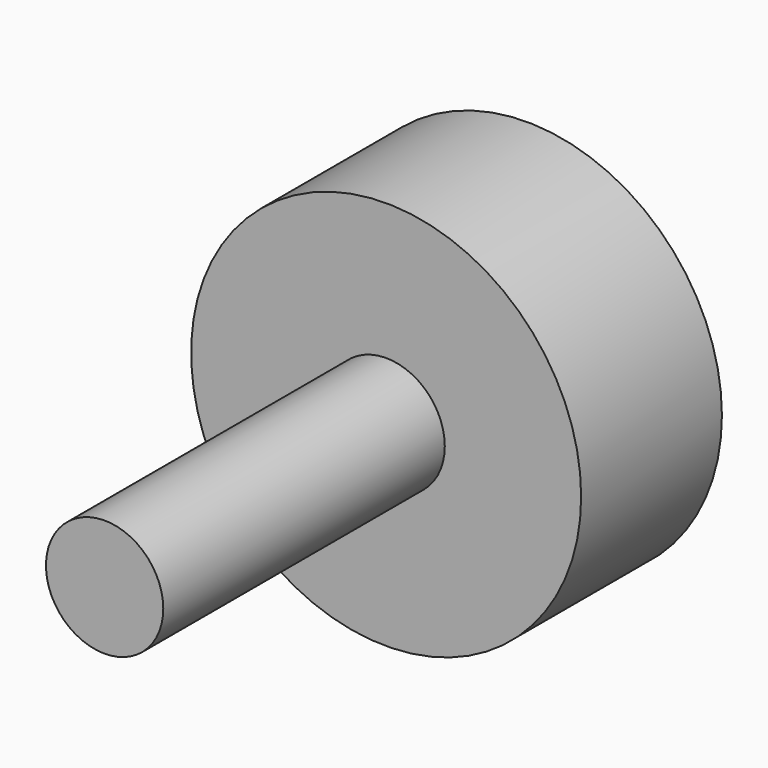
from build123d import *

# Parameters (mm, degrees)
F0_R     = 6.65
F1_DEPTH = 6
F2_R     = 2
F3_DEPTH = 12
F4_R     = 2.3
F5_DEPTH = 2


with BuildPart() as f1:
    # F0 (on Front) → F1 (new body)
    with BuildSketch(Plane.XZ):
        Circle(F0_R)
    extrude(amount=F1_DEPTH)

    # F2 (on face) → F3 (join)
    with BuildSketch(Plane.XZ.offset(6)):
        Circle(F2_R)
    extrude(amount=F3_DEPTH)

    # F4 (on face) → F5 (cut)
    with BuildSketch(Plane(origin=(0, 0, 0), x_dir=(-1, 0, 0), z_dir=(0, 1, 0))):
        with Locations((-4, 0)):
            Circle(F4_R)
        with Locations((4, 0)):
            Circle(F4_R)
    extrude(amount=-F5_DEPTH, mode=Mode.SUBTRACT)


solid = f1.part
